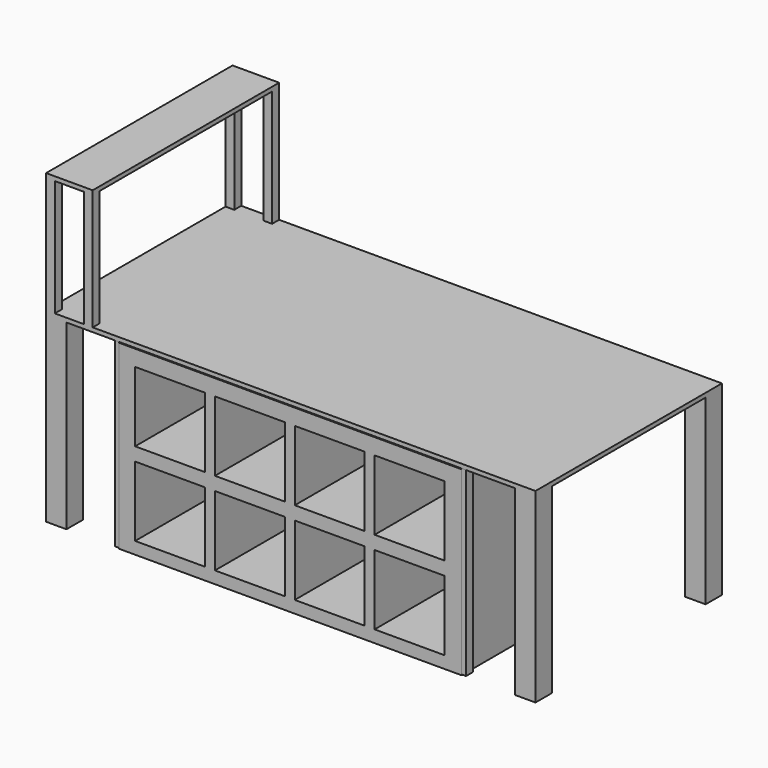
from build123d import *

# Parameters (mm, degrees)
F0_W      = 1062.92705037
F0_H      = 1016
F0_W_2    = 1070.67294963
F1_DEPTH  = 18.25625
F2_W      = 88.9
F2_H      = 88.9
F3_DEPTH  = 793.75
F6_DEPTH  = 790.575
F7_W      = 304.8
F7_H      = 304.8
F8_DEPTH  = 381
F9_W      = 19.05
F9_H      = 38.1
F10_DEPTH = 790.575
F11_W     = 38.1
F11_H     = 38.1
F12_DEPTH = 508
F13_W     = 203.2
F13_H     = 1016
F14_DEPTH = 18.25625


with BuildPart() as f1:
    # F0 (on Top) → F1 (new body)
    with BuildSketch(Plane.XY):
        with Locations((-531.463525185, -532.9342050552)):
            Rectangle(F0_W, F0_H)
        with Locations((535.336474815, -532.9342050552)):
            Rectangle(F0_W_2, F0_H)
    extrude(amount=F1_DEPTH)

    # F2 (on face) → F3 (join)
    with BuildSketch(Plane(origin=(0, 0, 0), x_dir=(1, 0, 0), z_dir=(0, 0, -1))):
        with Locations((-1018.47705037, 996.4842050552)):
            Rectangle(F2_W, F2_H)
        with Locations((-1018.47705037, 69.3842050552)):
            Rectangle(F2_W, F2_H)
        with Locations((1026.22294963, 69.3842050552)):
            Rectangle(F2_W, F2_H)
        with Locations((1026.22294963, 996.4842050552)):
            Rectangle(F2_W, F2_H)
        Polygon((2.384284616, 650.4092050552), (-86.5163612858, 650.4092050552), (-86.8552443784, 561.5092050552), (2.0454015234, 561.5092050552), (2.3842821538, 650.4085591582), align=None)
        Polygon((91.2836362568, 650.0696785277), (2.3842821538, 650.4085591582), (2.0454015234, 561.5092050552), (90.9447556263, 561.1703244247), align=None)
        Polygon((0.3388830926, 113.8342050552), (-88.5617628091, 113.8342050552), (-88.9006459018, 24.9342050552), (0, 24.9342050552), (0.3388806305, 113.8335591582), align=None)
        Polygon((89.2382347334, 113.4946785277), (0.3388806305, 113.8335591582), (0, 24.9342050552), (88.8993541029, 24.5953244247), align=None)
    extrude(amount=F3_DEPTH)

    # F9 (on face) → F10 (join)
    with BuildSketch(Plane(origin=(0, 0, 0), x_dir=(1, 0, 0), z_dir=(0, 0, -1))):
        with Locations((758.331836319, 1021.8431928635)):
            Rectangle(F9_W, F9_H)
        with Locations((-753.6382685661, 1021.8431928635)):
            Rectangle(F9_W, F9_H)
    extrude(amount=F10_DEPTH)

    # F11 (on face) → F12 (join)
    with BuildSketch(Plane.XY.offset(18.25625)):
        with Locations((-1043.87705037, -43.9842050552)):
            Rectangle(F11_W, F11_H)
        with Locations((-878.77705037, -43.9842050552)):
            Rectangle(F11_W, F11_H)
        with Locations((-1043.87705037, -1021.8842050552)):
            Rectangle(F11_W, F11_H)
        with Locations((-878.77705037, -1021.8842050552)):
            Rectangle(F11_W, F11_H)
    extrude(amount=F12_DEPTH)

    # F13 (on face) → F14 (join)
    with BuildSketch(Plane.XY.offset(526.25625)):
        with Locations((-961.32705037, -532.9342050552)):
            Rectangle(F13_W, F13_H)
    extrude(amount=F14_DEPTH)


with BuildPart() as f6:
    # F5 (on offset) → F6 (new body)
    with BuildSketch(Plane(origin=(0, 0, -3.175), x_dir=(1, 0, 0), z_dir=(0, 0, -1))):
        Polygon((748.492538929, 1041.2073135376), (-743.9953684807, 1041.3942337036), (-743.9953684807, 651.8683433533), (748.4639286995, 651.8683433533), align=None)
    extrude(amount=F6_DEPTH)

    # F7 (on face) → F8 (cut)
    with BuildSketch(Plane(origin=(0.1304132262, -1041.3010389019, 0), x_dir=(0.9999999922, 0.0001252407, 0), z_dir=(0.0001252407, -0.9999999922, 0))):
        with Locations((-522.117882967, -225.2663967781)):
            Rectangle(F7_W, F7_H)
        with Locations((-522.117882967, -588.4863967781)):
            Rectangle(F7_W, F7_H)
        with Locations((-174.137882967, -225.2663967781)):
            Rectangle(F7_W, F7_H)
        with Locations((-174.137882967, -588.4863967781)):
            Rectangle(F7_W, F7_H)
        with Locations((173.842117033, -225.2663967781)):
            Rectangle(F7_W, F7_H)
        with Locations((173.842117033, -588.4863967781)):
            Rectangle(F7_W, F7_H)
        with Locations((521.822117033, -225.2663967781)):
            Rectangle(F7_W, F7_H)
        with Locations((521.822117033, -588.4863967781)):
            Rectangle(F7_W, F7_H)
    extrude(amount=-F8_DEPTH, mode=Mode.SUBTRACT)


solid = Compound([f1.part, f6.part])
